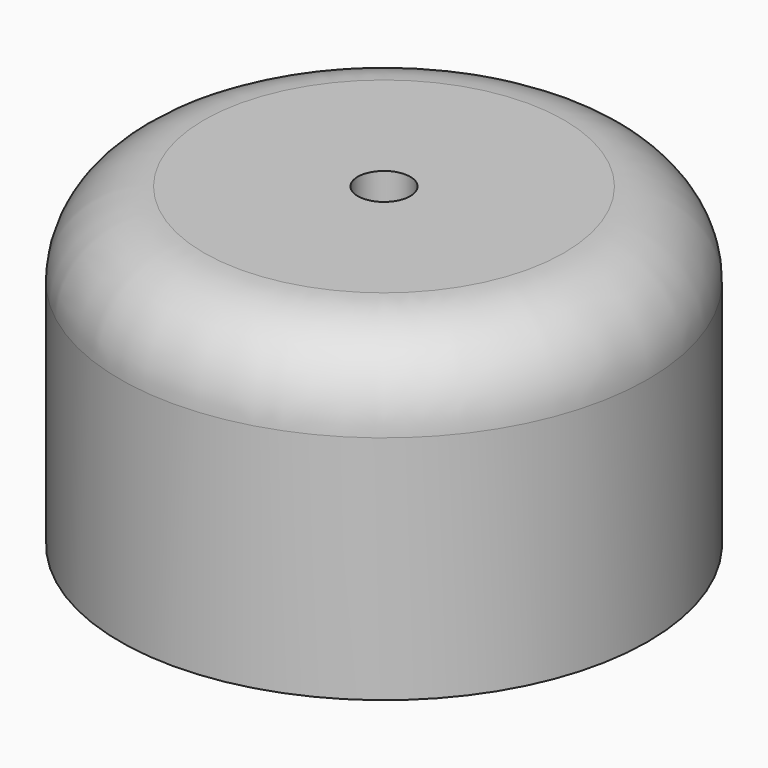
from build123d import *

# Parameters (mm, degrees)
F0_R     = 31.9398349348
F1_DEPTH = 38.1
F2_R     = 10.16
F4_D     = 6.35
F5_T     = -1.27


with BuildPart() as f1:
    # F0 (on Top) → F1 (new body)
    with BuildSketch(Plane.XY):
        Circle(F0_R)
    extrude(amount=F1_DEPTH)

    # F2
    f2_edges = [f1.edges().sort_by_distance(p)[0] for p in [
        (-31.939835, 0, 38.1),
    ]]
    fillet(f2_edges, radius=F2_R)

    # F4 (through all)
    with Locations(Plane.XY.offset(38.1)):
        with Locations((0, 0)):
            Hole(F4_D / 2)

    # F5
    f5_openings = [f1.faces().sort_by_distance(p)[0] for p in [
        (-31.03644, 0, 0),
    ]]
    offset(amount=F5_T, openings=f5_openings)


solid = f1.part
